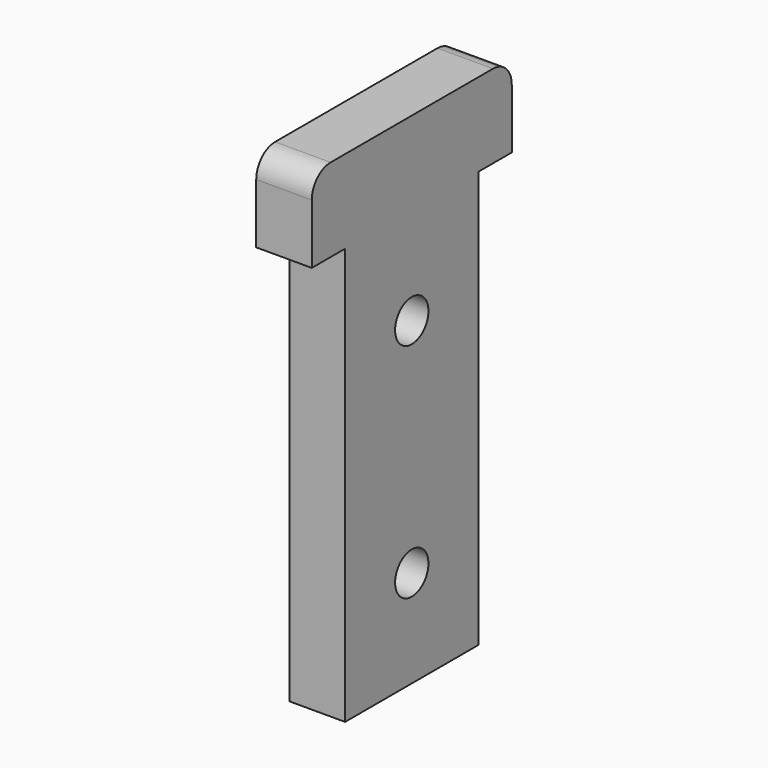
from build123d import *

# Parameters (mm, degrees)
F0_R     = 1.5
F1_DEPTH = 4
F2_ANGLE = 90
F4_ANGLE = 90


with BuildPart() as f1:
    # F0 (on Top) → F1 (new body)
    with BuildSketch(Plane.XY):
        with BuildLine():
            Line((-6, 13.9288183318), (-6, -16.0711816682))
            Line((-6, -16.0711816682), (6, -16.0711816682))
            Line((6, -16.0711816682), (6, 13.9288183318))
            Line((6, 13.9288183318), (9, 13.9288183318))
            Line((9, 13.9288183318), (9, 18.2345626692))
            ThreePointArc((9, 18.2345626692), (8.5037640055, 19.4325823373), (7.3057443374, 19.9288183318))
            Line((7.3057443374, 19.9288183318), (-7.3057443374, 19.9288183318))
            ThreePointArc((-7.3057443374, 19.9288183318), (-8.5037640055, 19.4325823373), (-9, 18.2345626692))
            Line((-9, 18.2345626692), (-9, 13.9288183318))
            Line((-9, 13.9288183318), (-6, 13.9288183318))
        make_face()
        with Locations((0, -9.0711816682)):
            Circle(F0_R, mode=Mode.SUBTRACT)
        with Locations((0, 6.9308183318)):
            Circle(F0_R, mode=Mode.SUBTRACT)
    extrude(amount=F1_DEPTH)


with BuildPart() as f1_1:
    # F2: moved
    add(f1.part.rotate(Axis((0, -16.0711816682, 0), (1, 0, 0)), F2_ANGLE))


with BuildPart() as f1_2:
    # F4: moved
    add(f1_1.part.rotate(Axis((6, -16.0711816682, 1.3093175367), (0, 0, -1)), F4_ANGLE))


solid = f1_2.part
